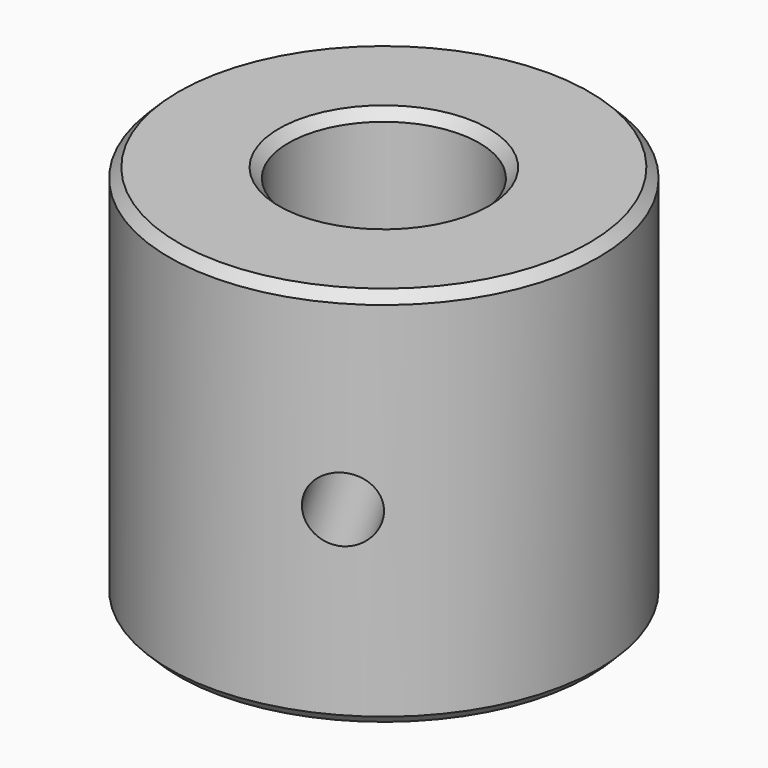
from build123d import *

# Parameters (mm, degrees)
F0_R            = 22.5
F0_R_2          = 10
F1_DEPTH        = 20
F2_SIZE         = 1
F10_D           = 6.8
F10_DEPTH       = 15
F10_TIP         = 2.0429261047
F10_ON_F7_D     = 6.8
F10_ON_F7_DEPTH = 15
F10_ON_F7_TIP   = 2.0429261047
F10_ON_F9_D     = 6.8
F10_ON_F9_DEPTH = 15
F10_ON_F9_TIP   = 2.0429261047


with BuildPart() as f1:
    # F0 (on Top) → F1 (new body, symmetric)
    with BuildSketch(Plane.XY):
        Circle(F0_R)
        Circle(F0_R_2, mode=Mode.SUBTRACT)
    extrude(amount=F1_DEPTH, both=True)

    # F2
    f2_edges = [f1.edges().sort_by_distance(p)[0] for p in [
        (-22.5, 0, 20),
        (-22.5, 0, -20),
        (-10, 0, 20),
        (-10, 0, -20),
    ]]
    chamfer(f2_edges, length=F2_SIZE)

    # F10
    with Locations(Plane(origin=(11.25, -19.4855715851, 0), x_dir=(0.8660254038, 0.5, 0), z_dir=(0.5, -0.8660254038, 0))):
        with Locations((0, 0)):
            Hole(F10_D / 2, depth=F10_DEPTH)
            with Locations((0, 0, -(F10_DEPTH + F10_TIP / 2))):  # 118° drill point
                Cone(0, F10_D / 2, F10_TIP, mode=Mode.SUBTRACT)

    # F10 on F7
    with Locations(Plane(origin=(11.3809796361, 19.7124349697, 0), x_dir=(-0.8660254038, 0.5, 0), z_dir=(0.5, 0.8660254038, 0))):
        with Locations((0, 0)):
            Hole(F10_ON_F7_D / 2, depth=F10_ON_F7_DEPTH)
            with Locations((0, 0, -(F10_ON_F7_DEPTH + F10_ON_F7_TIP / 2))):  # 118° drill point
                Cone(0, F10_ON_F7_D / 2, F10_ON_F7_TIP, mode=Mode.SUBTRACT)

    # F10 on F9
    with Locations(Plane(origin=(-22.5, 0, 0), x_dir=(0, -1, 0), z_dir=(-1, 0, 0))):
        with Locations((0, 0)):
            Hole(F10_ON_F9_D / 2, depth=F10_ON_F9_DEPTH)
            with Locations((0, 0, -(F10_ON_F9_DEPTH + F10_ON_F9_TIP / 2))):  # 118° drill point
                Cone(0, F10_ON_F9_D / 2, F10_ON_F9_TIP, mode=Mode.SUBTRACT)


solid = f1.part
